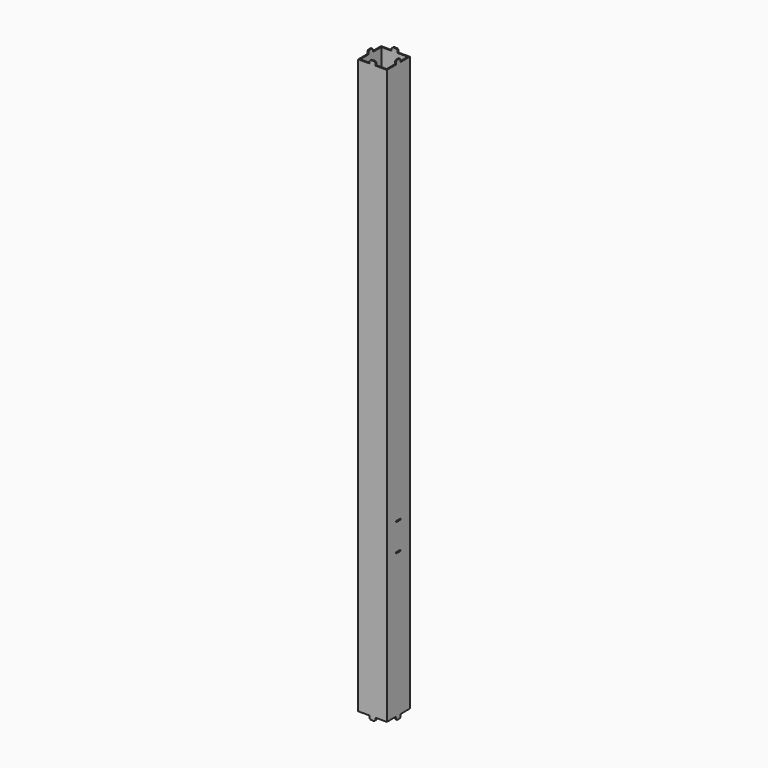
from build123d import *

# Parameters (mm, degrees)
F1_DEPTH  = 50
F2_W      = 46
F2_H      = 46
F4_DEPTH  = 1012.001
F5_DEPTH  = 2
F7_DEPTH  = 2
F9_DEPTH  = 2
F11_DEPTH = 2
F12_W     = 10.02
F12_H     = 2.02
F13_DEPTH = 2
F14_W     = 10.02
F14_H     = 2.02
F15_DEPTH = 2


with BuildPart() as f1:
    # F0 (on Front) → F1 (new body)
    with BuildSketch(Plane.XZ):
        Polygon((-36.864701, 862.26987), (-56.864701, 862.26987), (-56.864701, -137.73013), (-36.864701, -137.73013), (-36.864701, -141.73013), (-34.864701, -143.73013), (-28.864701, -143.73013), (-26.864701, -141.73013), (-26.864701, -137.73013), (-6.864701, -137.73013), (-6.864701, 862.26987), (-26.864701, 862.26987), (-26.864701, 866.26987), (-28.864701, 868.26987), (-34.864701, 868.26987), (-36.864701, 866.26987), align=None)
    extrude(amount=F1_DEPTH)

    # F2 (on face) → F4 (cut, through all)
    with BuildSketch(Plane.XY.offset(868.26987)):
        with Locations((-31.864701, -25)):
            Rectangle(F2_W, F2_H)
    extrude(amount=-F4_DEPTH, mode=Mode.SUBTRACT)

    # F3 (on face) → F5 (join)
    with BuildSketch(Plane.YZ.offset(-6.864701)):
        Polygon((-30, 866.26987), (-30, 862.26987), (-20, 862.26987), (-20, 866.26987), (-22, 868.26987), (-28, 868.26987), align=None)
    extrude(amount=-F5_DEPTH)

    # F6 (on face) → F7 (join)
    with BuildSketch(Plane(origin=(-56.864701, 0, 0), x_dir=(0, -1, 0), z_dir=(-1, 0, 0))):
        Polygon((20, 866.26987), (20, 862.26987), (30, 862.26987), (30, 866.26987), (28, 868.26987), (22, 868.26987), align=None)
    extrude(amount=-F7_DEPTH)

    # F8 (on face) → F9 (join)
    with BuildSketch(Plane(origin=(-56.864701, 0, 0), x_dir=(0, -1, 0), z_dir=(-1, 0, 0))):
        Polygon((30, -137.73013), (20, -137.73013), (20, -141.73013), (21.675467, -143.73013), (28.324533, -143.73013), (30, -141.73013), align=None)
    extrude(amount=-F9_DEPTH)

    # F10 (on face) → F11 (join)
    with BuildSketch(Plane.YZ.offset(-6.864701)):
        Polygon((-20, -137.73013), (-30, -137.73013), (-30, -141.73013), (-28, -143.73013), (-22, -143.73013), (-20, -141.73013), align=None)
    extrude(amount=-F11_DEPTH)

    # F12 (on face) → F13 (cut)
    with BuildSketch(Plane.YZ.offset(-6.864701)):
        with Locations((-25, 161.25987)):
            Rectangle(F12_W, F12_H)
        with Locations((-25, 113.27987)):
            Rectangle(F12_W, F12_H)
    extrude(amount=-F13_DEPTH, mode=Mode.SUBTRACT)

    # F14 (on face) → F15 (cut)
    with BuildSketch(Plane(origin=(0, 0, 0), x_dir=(-1, 0, 0), z_dir=(0, 1, 0))):
        with Locations((31.864701, 161.25987)):
            Rectangle(F14_W, F14_H)
        with Locations((31.864701, 113.27987)):
            Rectangle(F14_W, F14_H)
    extrude(amount=-F15_DEPTH, mode=Mode.SUBTRACT)


solid = f1.part
